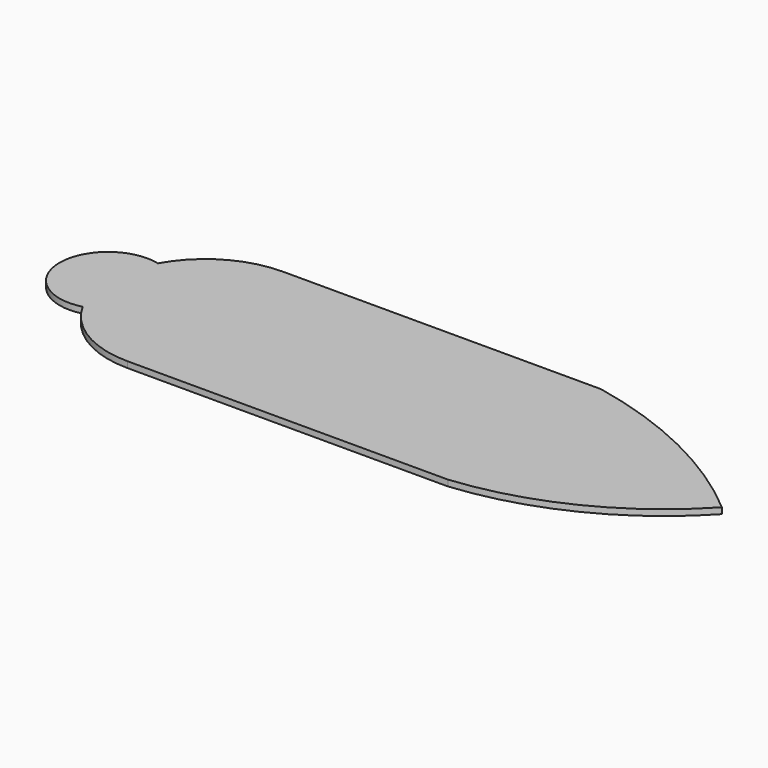
from build123d import *

# Parameters (mm, degrees)
F1_DEPTH = 2.38125


with BuildPart() as f1:
    # F0 (on Top) → F1 (new body)
    with BuildSketch(Plane.XY):
        with BuildLine():
            ThreePointArc((-49.106257, -18.445755), (-53.912843, 0), (-49.106257, 18.445755))
            ThreePointArc((-49.106257, 18.445755), (-72.916155, 0), (-49.106257, -18.445755))
        make_face()
        with BuildLine():
            ThreePointArc((-15.769129, 38.1), (-35.118893, 32.820674), (-49.106257, 18.445755))
            ThreePointArc((-49.106257, 18.445755), (-53.912843, 0), (-49.106257, -18.445755))
            ThreePointArc((-49.106257, -18.445755), (-35.118893, -32.820674), (-15.769129, -38.1))
            Line((-15.769129, -38.1), (109.947197, -38.1))
            ThreePointArc((109.947197, -38.1), (151.988508, -26.103622), (187.059663, 0))
            ThreePointArc((187.059663, 0), (187.065519, 0.006286), (187.071374, 0.012572))
            ThreePointArc((187.071374, 0.012572), (150.549449, 24.010409), (109.182425, 38.1))
            Line((109.182425, 38.1), (-14.767172, 38.1))
            ThreePointArc((-14.767172, 38.1), (-14.764537, 38.093342), (-14.761901, 38.086684))
            ThreePointArc((-14.761901, 38.086684), (-15.265471, 38.096671), (-15.769129, 38.1))
        make_face()
        with BuildLine():
            Line((-14.767172, 38.1), (-15.769129, 38.1))
            ThreePointArc((-15.769129, 38.1), (-15.265471, 38.096671), (-14.761901, 38.086684))
            ThreePointArc((-14.761901, 38.086684), (-14.764537, 38.093342), (-14.767172, 38.1))
        make_face()
        with BuildLine():
            ThreePointArc((187.071374, 0.012572), (187.065519, 0.006286), (187.059663, 0))
            Line((187.059663, 0), (187.086063, 0))
            ThreePointArc((187.086063, 0), (187.078718, 0.006286), (187.071374, 0.012572))
        make_face()
    extrude(amount=F1_DEPTH)


solid = f1.part
